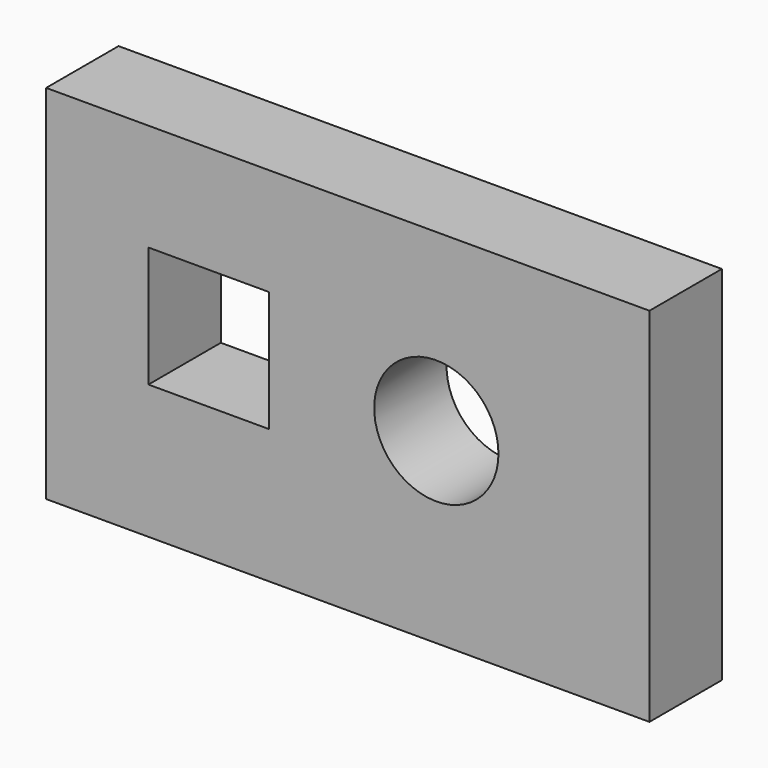
from build123d import *

# Parameters (mm, degrees)
F0_W     = 127
F0_H     = 76.2
F1_DEPTH = 19.05
F2_R     = 13.080909
F2_W     = 25.4
F2_H     = 25.4
F3_DEPTH = 2540


with BuildPart() as f1:
    # F0 (on Front) → F1 (new body)
    with BuildSketch(Plane.XZ):
        with Locations((-12.059385, 38.1)):
            Rectangle(F0_W, F0_H)
    extrude(amount=F1_DEPTH)

    # F2 (on face) → F3 (cut)
    with BuildSketch(Plane.XZ.offset(19.05)):
        with Locations((6.574779, 39.347522)):
            Circle(F2_R)
        with Locations((-41.325576, 40.920974)):
            Rectangle(F2_W, F2_H)
    extrude(amount=-F3_DEPTH, mode=Mode.SUBTRACT)


solid = f1.part
